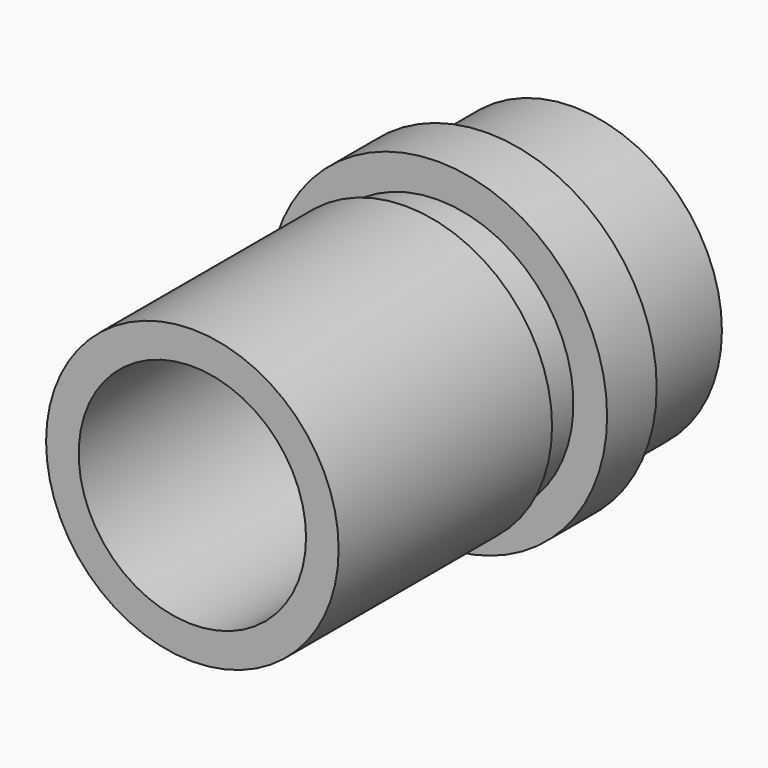
from build123d import *

# Parameters (mm, degrees)
F0_R      = 17.3355
F1_DEPTH  = 6.35
F2_R      = 14.986
F3_DEPTH  = 31.4452
F4_R      = 15.24
F5_DEPTH  = 10.9728
F6_W      = 4.1148
F6_H      = 1.09728
F8_R      = 11.6459
F9_DEPTH  = 31.75
F10_R     = 12.7
F11_DEPTH = 10.287
F13_DEPTH = 6.731


with BuildPart() as f1:
    # F0 (on Front) → F1 (new body)
    with BuildSketch(Plane.XZ):
        Circle(F0_R)
    extrude(amount=-F1_DEPTH)

    # F2 (on face) → F3 (join)
    with BuildSketch(Plane.XZ):
        Circle(F2_R)
    extrude(amount=F3_DEPTH)

    # F4 (on face) → F5 (join)
    with BuildSketch(Plane(origin=(0, 6.35, 0), x_dir=(-1, 0, 0), z_dir=(0, 1, 0))):
        Circle(F4_R)
    extrude(amount=F5_DEPTH)

    # F6 (on Right) → F7 (revolve, cut)
    with BuildSketch(Plane.YZ):
        with Locations((-2.0574, 14.43736)):
            Rectangle(F6_W, F6_H)
    revolve(axis=Axis((0, -0.221021, 0), (0, 1, 0)), mode=Mode.SUBTRACT)

    # F8 (on face) → F9 (cut)
    with BuildSketch(Plane.XZ.offset(31.4452)):
        Circle(F8_R)
    extrude(amount=-F9_DEPTH, mode=Mode.SUBTRACT)

    # F10 (on face) → F11 (cut)
    with BuildSketch(Plane.XZ.offset(-0.3048)):
        Circle(F10_R)
    extrude(amount=-F11_DEPTH, mode=Mode.SUBTRACT)

    # F12 (on face) → F13 (cut, through all)
    with BuildSketch(Plane(origin=(0, 17.3228, 0), x_dir=(-1, 0, 0), z_dir=(0, 1, 0))):
        with BuildLine():
            Line((-4.173907, 7.676207), (-6.65057, 9.560173))
            ThreePointArc((-6.65057, 9.560173), (-8.234895, 8.234895), (-9.560173, 6.65057))
            Line((-9.560173, 6.65057), (-7.676207, 4.173907))
            ThreePointArc((-7.676207, 4.173907), (-8.07249, 3.343735), (-8.379296, 2.4765))
            Line((-8.379296, 2.4765), (-11.462726, 2.0574))
            ThreePointArc((-11.462726, 2.0574), (-11.6459, 0), (-11.462726, -2.0574))
            Line((-11.462726, -2.0574), (-8.379296, -2.4765))
            ThreePointArc((-8.379296, -2.4765), (-8.07249, -3.343735), (-7.676207, -4.173907))
            Line((-7.676207, -4.173907), (-9.560173, -6.65057))
            ThreePointArc((-9.560173, -6.65057), (-8.234895, -8.234895), (-6.65057, -9.560173))
            Line((-6.65057, -9.560173), (-4.173907, -7.676207))
            ThreePointArc((-4.173907, -7.676207), (-3.343735, -8.07249), (-2.4765, -8.379296))
            Line((-2.4765, -8.379296), (-2.0574, -11.462726))
            ThreePointArc((-2.0574, -11.462726), (0, -11.6459), (2.0574, -11.462726))
            Line((2.0574, -11.462726), (2.4765, -8.379296))
            ThreePointArc((2.4765, -8.379296), (3.343735, -8.07249), (4.173907, -7.676207))
            Line((4.173907, -7.676207), (6.65057, -9.560173))
            ThreePointArc((6.65057, -9.560173), (8.234895, -8.234895), (9.560173, -6.65057))
            Line((9.560173, -6.65057), (7.676207, -4.173907))
            ThreePointArc((7.676207, -4.173907), (8.07249, -3.343735), (8.379296, -2.4765))
            Line((8.379296, -2.4765), (11.462726, -2.0574))
            ThreePointArc((11.462726, -2.0574), (11.6459, 0), (11.462726, 2.0574))
            Line((11.462726, 2.0574), (8.379296, 2.4765))
            ThreePointArc((8.379296, 2.4765), (8.07249, 3.343735), (7.676207, 4.173907))
            Line((7.676207, 4.173907), (9.560173, 6.65057))
            ThreePointArc((9.560173, 6.65057), (8.234895, 8.234895), (6.65057, 9.560173))
            Line((6.65057, 9.560173), (4.173907, 7.676207))
            ThreePointArc((4.173907, 7.676207), (3.343735, 8.07249), (2.4765, 8.379296))
            Line((2.4765, 8.379296), (2.0574, 11.462726))
            ThreePointArc((2.0574, 11.462726), (0, 11.6459), (-2.0574, 11.462726))
            Line((-2.0574, 11.462726), (-2.4765, 8.379296))
            ThreePointArc((-2.4765, 8.379296), (-3.343735, 8.07249), (-4.173907, 7.676207))
        make_face()
    extrude(amount=-F13_DEPTH, mode=Mode.SUBTRACT)


solid = f1.part
